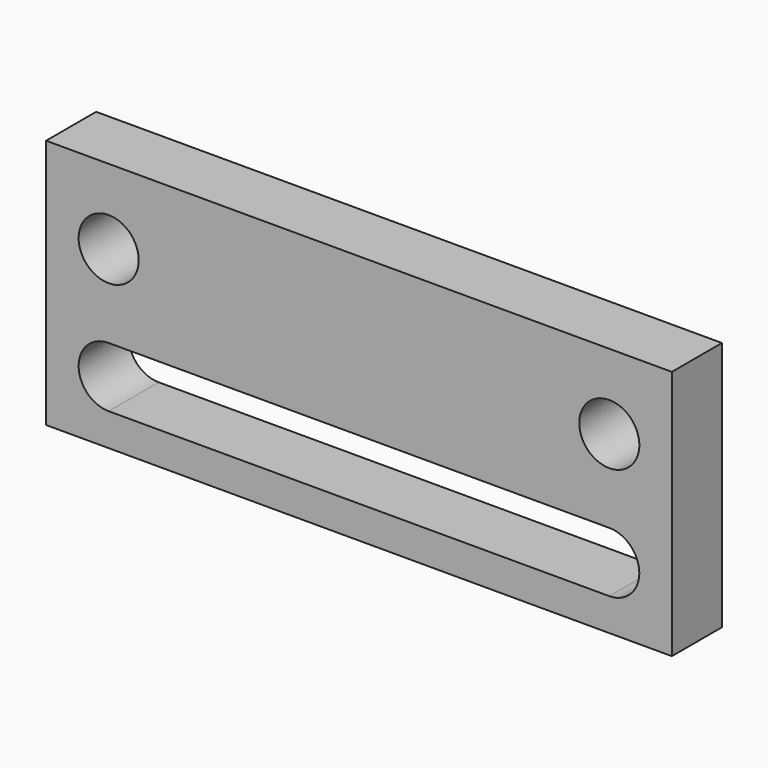
from build123d import *

# Parameters (mm, degrees)
F0_W     = 250
F0_H     = 100
F0_R     = 12
F1_DEPTH = 25


with BuildPart() as f1:
    # F0 (on Front) → F1 (new body)
    with BuildSketch(Plane.XZ):
        with Locations((125, 50)):
            Rectangle(F0_W, F0_H)
        with BuildLine():
            ThreePointArc((225, 37), (237, 25), (225, 13))
            Line((225, 13), (25, 13))
            ThreePointArc((25, 13), (13, 25), (25, 37))
            Line((25, 37), (225, 37))
        make_face(mode=Mode.SUBTRACT)
        with Locations((25, 70)):
            Circle(F0_R, mode=Mode.SUBTRACT)
        with BuildLine():
            ThreePointArc((237, 70), (225, 58), (213, 70))
            ThreePointArc((213, 70), (225, 82), (237, 70))
        make_face(mode=Mode.SUBTRACT)
    extrude(amount=F1_DEPTH)


solid = f1.part
